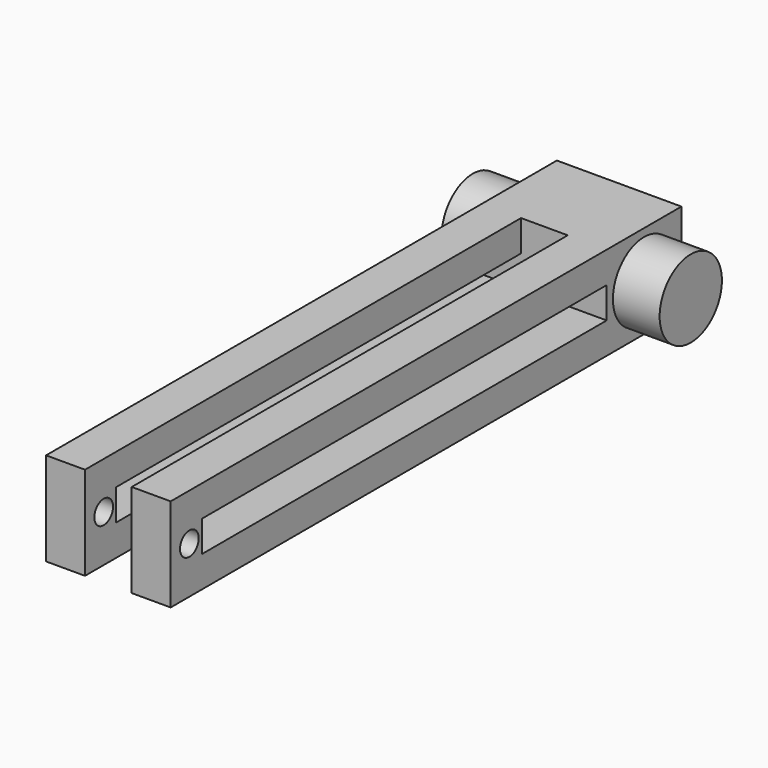
from build123d import *

# Parameters (mm, degrees)
F0_R          = 25
F1_DEPTH      = 140
F2_W          = 80
F2_H          = 60
F3_DEPTH      = 30
F3_DEPTH_BACK = 30
F4_W          = 25
F4_H          = 20
F5_DEPTH      = 350
F6_W          = 25
F6_H          = 25
F7_DEPTH      = 50
F8_R          = 7.5
F9_DEPTH      = 110.001


with BuildPart() as f1:
    # F0 (on Right) → F1 (new body)
    with BuildSketch(Plane.YZ):
        Circle(F0_R)
    extrude(amount=F1_DEPTH)

    # F2 (on Front) → F3 (join, two sides)
    with BuildSketch(Plane.XZ) as f3_sk:
        with Locations((70, 0)):
            Rectangle(F2_W, F2_H)
    extrude(amount=F3_DEPTH)
    extrude(f3_sk.sketch, amount=-F3_DEPTH_BACK)

    # F4 (on face) → F5 (join)
    with BuildSketch(Plane.XZ.offset(30)):
        with Locations((97.5, 20)):
            Rectangle(F4_W, F4_H)
        with Locations((42.5, 20)):
            Rectangle(F4_W, F4_H)
        with Locations((42.5, -20)):
            Rectangle(F4_W, F4_H)
        with Locations((97.5, -20)):
            Rectangle(F4_W, F4_H)
    extrude(amount=F5_DEPTH)

    # F6 (on face) → F7 (join)
    with BuildSketch(Plane.XY.offset(30)):
        with Locations((97.5, -367.5)):
            Rectangle(F6_W, F6_H)
        with Locations((42.5, -367.5)):
            Rectangle(F6_W, F6_H)
    extrude(amount=-F7_DEPTH)

    # F8 (on face) → F9 (cut, through all)
    with BuildSketch(Plane.YZ.offset(110)):
        with Locations((-365, 0)):
            Circle(F8_R)
    extrude(amount=-F9_DEPTH, mode=Mode.SUBTRACT)


solid = f1.part
